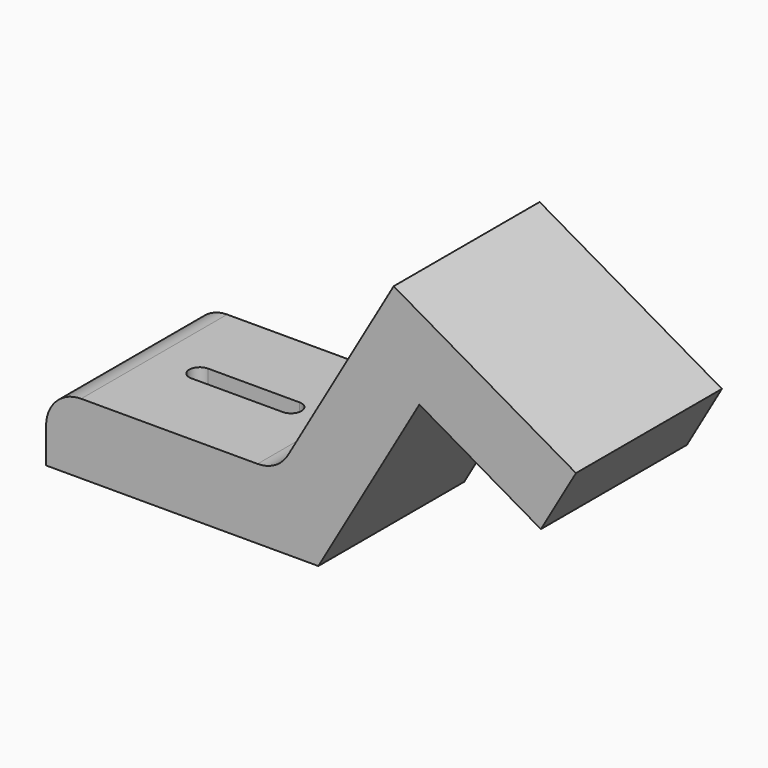
from build123d import *

# Parameters (mm, degrees)
F1_DEPTH = 26
F3_DEPTH = 10.001


with BuildPart() as f1:
    # F0 (on Front) → F1 (new body)
    with BuildSketch(Plane.XZ):
        with BuildLine():
            Line((-38.8, 0), (0, 0))
            Line((0, 0), (14.4, 24.941532))
            Line((14.4, 24.941532), (19.4, 33.601786))
            Line((19.4, 33.601786), (10.739746, 38.601786))
            Line((10.739746, 38.601786), (-4.330127, 12.5))
            ThreePointArc((-4.330127, 12.5), (-6.160254, 10.669873), (-8.660254, 10))
            Line((-8.660254, 10), (-33.8, 10))
            ThreePointArc((-33.8, 10), (-37.335534, 8.535534), (-38.8, 5))
            Line((-38.8, 5), (-38.8, 0))
        make_face()
        Polygon((19.4, 33.601786), (14.4, 24.941532), (31.720508, 14.941532), (36.720508, 23.601786), align=None)
    extrude(amount=F1_DEPTH)

    # F2 (on face) → F3 (cut, through all)
    with BuildSketch(Plane.XY.offset(10)):
        with BuildLine():
            Line((-14.3, -11.5), (-27.3, -11.5))
            ThreePointArc((-27.3, -11.5), (-28.8, -13.00064), (-27.298719, -14.499999))
            Line((-27.298719, -14.499999), (-14.480872, -14.489055))
            ThreePointArc((-14.480872, -14.489055), (-12.802739, -13.090601), (-14.3, -11.5))
        make_face()
    extrude(amount=-F3_DEPTH, mode=Mode.SUBTRACT)


solid = f1.part
